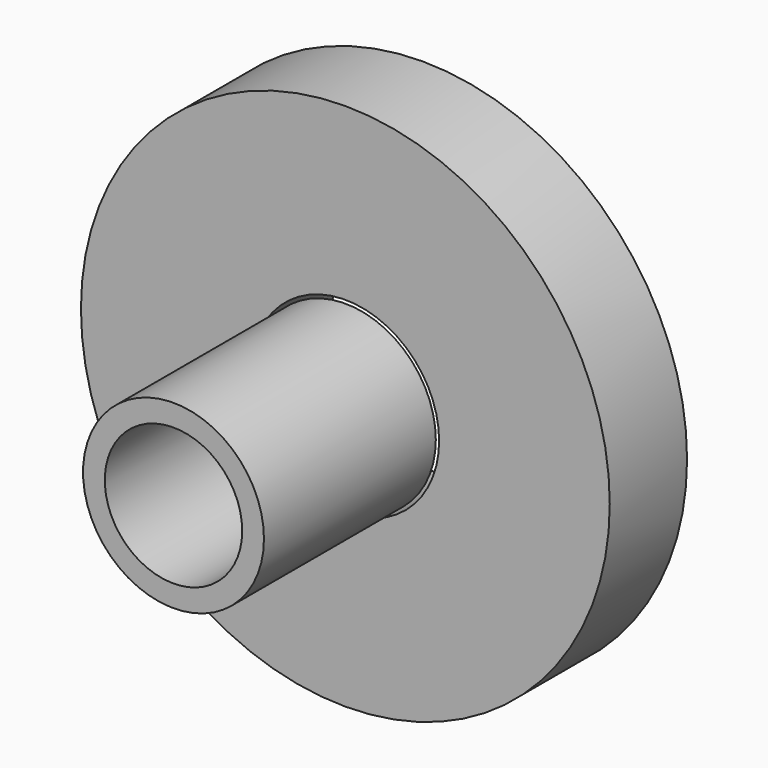
from build123d import *

# Parameters (mm, degrees)
F0_R     = 69.510821
F0_R_2   = 24.652085
F1_DEPTH = 25.4
F2_R     = 23.780773
F2_R_2   = 18.062648
F3_DEPTH = 56.472674


with BuildPart() as f1:
    # F0 (on Front) → F1 (new body)
    with BuildSketch(Plane.XZ):
        Circle(F0_R)
        Circle(F0_R_2, mode=Mode.SUBTRACT)
        Circle(F0_R)
        Circle(F0_R_2, mode=Mode.SUBTRACT)
    extrude(amount=F1_DEPTH)


with BuildPart() as f3:
    # F2 (on face) → F3 (new body)
    with BuildSketch(Plane.XZ.offset(25.4)):
        Circle(F2_R)
        Circle(F2_R_2, mode=Mode.SUBTRACT)
    extrude(amount=F3_DEPTH)


solid = Compound([f1.part, f3.part])
